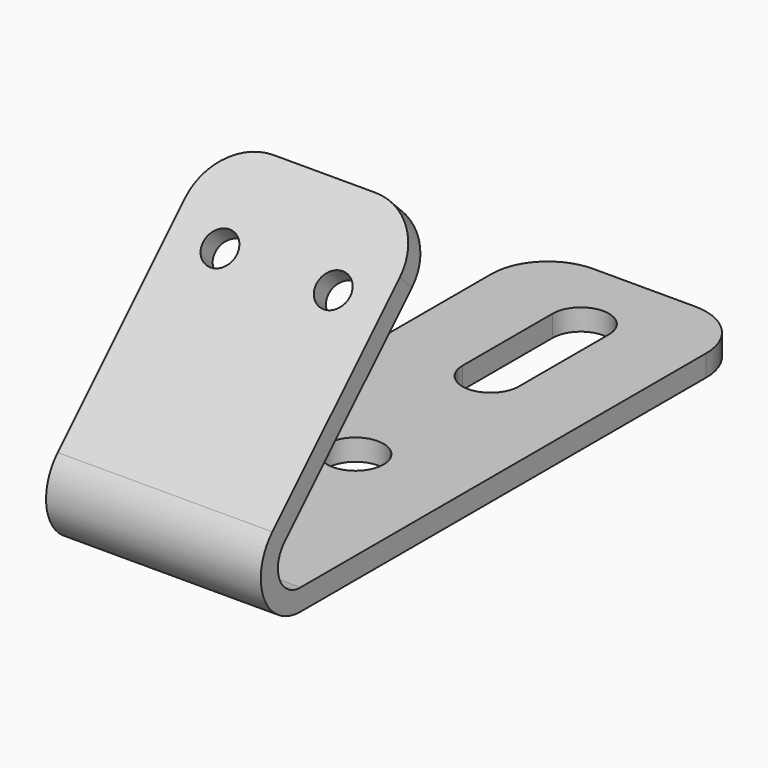
from build123d import *

# Parameters (mm, degrees)
F1_DEPTH = 9.525
F2_R     = 2.5
F3_DEPTH = 1.9
F4_R     = 1.5
F5_DEPTH = 1.9
F6_R     = 5


with BuildPart() as f1:
    # F0 (on Right) → F1 (new body, symmetric)
    with BuildSketch(Plane.YZ):
        with BuildLine():
            ThreePointArc((-3.1112698372, 7.5112698372), (-4.065069943, 2.7161928976), (0, 0))
            Line((0, 0), (50, 0))
            Line((50, 0), (50, 1.9))
            Line((50, 1.9), (0, 1.9))
            ThreePointArc((0, 1.9), (-2.3096988313, 3.4432914191), (-1.767766953, 6.167766953))
            Line((-1.767766953, 6.167766953), (15.9099025767, 23.8454364826))
            Line((15.9099025767, 23.8454364826), (14.5663996924, 25.1889393669))
            Line((14.5663996924, 25.1889393669), (-3.1112698372, 7.5112698372))
        make_face()
    extrude(amount=F1_DEPTH, both=True)

    # F2 (on face) → F3 (cut, through all)
    with BuildSketch(Plane(origin=(0, 0, 0), x_dir=(1, 0, 0), z_dir=(0, 0, -1))):
        with BuildLine():
            ThreePointArc((-2.5, -43), (0, -45.5), (2.5, -43))
            Line((2.5, -43), (-2.5, -43))
        make_face()
        with BuildLine():
            Line((-2.5, -43), (2.5, -43))
            ThreePointArc((2.5, -43), (0, -40.5), (-2.5, -43))
        make_face()
        with BuildLine():
            ThreePointArc((-2.5, -43), (0, -40.5), (2.5, -43))
            Line((2.5, -43), (2.5, -33))
            ThreePointArc((2.5, -33), (0, -35.5), (-2.5, -33))
            Line((-2.5, -33), (-2.5, -43))
        make_face()
        with BuildLine():
            Line((-2.5, -33), (2.5, -33))
            ThreePointArc((2.5, -33), (0, -30.5), (-2.5, -33))
        make_face()
        with BuildLine():
            ThreePointArc((-2.5, -33), (0, -35.5), (2.5, -33))
            Line((2.5, -33), (-2.5, -33))
        make_face()
        with Locations((0, -18)):
            Circle(F2_R)
    extrude(amount=-F3_DEPTH, mode=Mode.SUBTRACT)

    # F4 (on face) → F5 (cut, through all)
    with BuildSketch(Plane(origin=(0, -5.3112698372, 5.3112698372), x_dir=(1, 0, 0), z_dir=(0, -0.7071067812, 0.7071067812))):
        with Locations((-5.025, 20.6112698372)):
            Circle(F4_R)
        with Locations((5.025, 20.6112698372)):
            Circle(F4_R)
    extrude(amount=-F5_DEPTH, mode=Mode.SUBTRACT)

    # F6
    f6_edges = [f1.edges().sort_by_distance(p)[0] for p in [
        (9.525, 15.238151, 24.517188),
        (-9.525, 15.238151, 24.517188),
        (9.525, 50, 0.95),
        (-9.525, 50, 0.95),
    ]]
    fillet(f6_edges, radius=F6_R)


solid = f1.part
